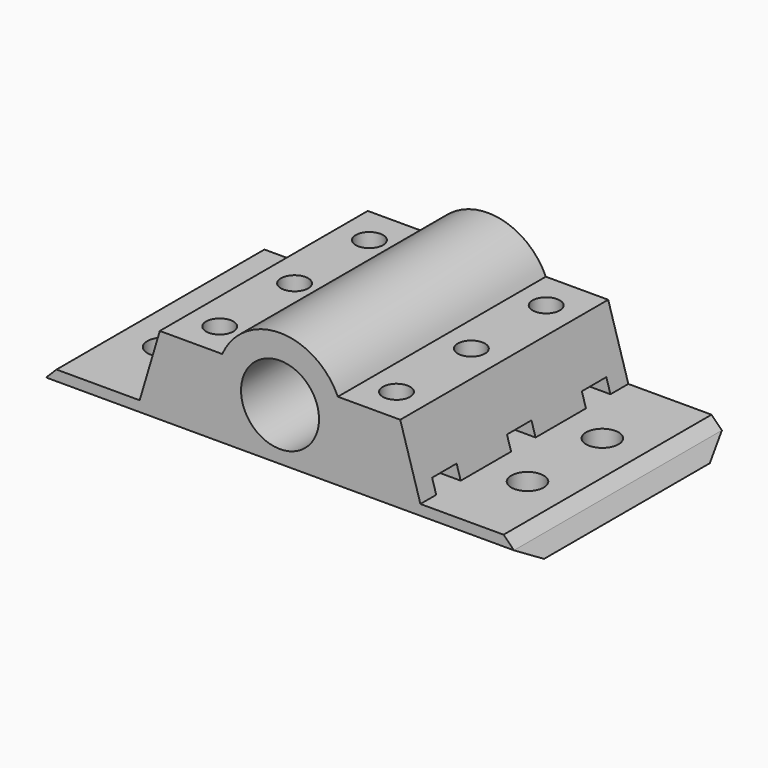
from build123d import *

# Parameters (mm, degrees)
SKETCH001_R     = 7.5
PAD_DEPTH       = 50
POCKET_DEPTH    = 93.668
SKETCH002_R     = 3.125
POCKET001_DEPTH = 61.197951
SKETCH003_R     = 1.7
POCKET002_DEPTH = 61.197951
SKETCH004_R     = 2.625
POCKET003_DEPTH = 4
POCKET004_DEPTH = 2.65
SKETCH006_W     = 90
SKETCH006_H     = 15
POCKET005_DEPTH = 5


with BuildPart() as part:
    # Sketch001 → Pad (new body)
    with BuildSketch(Plane.XZ.offset(-9.25)):
        with BuildLine():
            Line((168.894231, 39), (211.105769, 39))
            Line((212, 36), (211.105769, 39))
            Line((212, 36), (236.667, 36))
            Line((235, 39), (236.667, 36))
            Line((233, 41), (235, 39))
            Line((217, 41), (233, 41))
            Line((213.125, 54), (217, 41))
            Line((201.125, 54), (213.125, 54))
            ThreePointArc((201.125, 54), (190, 61.196951), (178.875, 54))
            Line((166.875, 54), (178.875, 54))
            Line((166.875, 54), (163, 41))
            Line((163, 41), (147, 41))
            Line((145, 39), (147, 41))
            Line((145, 39), (143.333, 36))
            Line((143.333, 36), (168, 36))
            Line((168.894231, 39), (168, 36))
        make_face()
        with Locations((190, 49)):
            Circle(SKETCH001_R, mode=Mode.SUBTRACT)
    extrude(amount=PAD_DEPTH)

    # Sketch → Pocket (cut, through all)
    with BuildSketch(Plane.YZ.offset(143)):
        Polygon((4.25, 36), (9.25, 39), (9.25, 36), align=None)
        Polygon((-35.6, 36), (-40.75, 39), (-40.75, 36), align=None)
    extrude(amount=POCKET_DEPTH, mode=Mode.SUBTRACT)

    # Sketch002 → Pocket001 (cut, through all)
    with BuildSketch(Plane.XY):
        with Locations((155, -7)):
            Circle(SKETCH002_R)
        with Locations((155, -25)):
            Circle(SKETCH002_R)
        with Locations((225, -7)):
            Circle(SKETCH002_R)
        with Locations((225, -25)):
            Circle(SKETCH002_R)
    extrude(amount=POCKET001_DEPTH, mode=Mode.SUBTRACT)

    # Sketch003 → Pocket002 (cut, through all)
    with BuildSketch(Plane.XY):
        with Locations((173, 2)):
            Circle(SKETCH003_R)
        with Locations((173, -16)):
            Circle(SKETCH003_R)
        with Locations((173, -34)):
            Circle(SKETCH003_R)
        with Locations((207, 2)):
            Circle(SKETCH003_R)
        with Locations((207, -16)):
            Circle(SKETCH003_R)
        with Locations((207, -34)):
            Circle(SKETCH003_R)
    extrude(amount=POCKET002_DEPTH, mode=Mode.SUBTRACT)

    # Sketch004 → Pocket003 (cut)
    with BuildSketch(Plane.XY.offset(54)):
        with Locations((173, 2)):
            Circle(SKETCH004_R)
        with Locations((207, -16)):
            Circle(SKETCH004_R)
        with Locations((173, -16)):
            Circle(SKETCH004_R)
        with Locations((173, -34)):
            Circle(SKETCH004_R)
        with Locations((207, -34)):
            Circle(SKETCH004_R)
        with Locations((207, 2)):
            Circle(SKETCH004_R)
    extrude(amount=-POCKET003_DEPTH, mode=Mode.SUBTRACT)

    # Sketch005 → Pocket004 (cut)
    with BuildSketch(Plane.XY.offset(41)):
        Polygon((174.7, 4.944486), (171.3, 4.944486), (162.8, 4.944486), (162.8, -0.944486), (171.3, -0.944486), (174.7, -0.944486), (176.4, 2), align=None)
        Polygon((176.4, -16), (174.7, -13.055514), (171.3, -13.055514), (162.8, -13.055514), (162.8, -18.944486), (171.3, -18.944486), (174.7, -18.944486), align=None)
        Polygon((176.4, -34), (174.7, -31.055514), (171.3, -31.055514), (162.8, -31.055514), (162.8, -36.944486), (171.3, -36.944486), (174.7, -36.944486), align=None)
        Polygon((203.6, 2), (205.3, -0.944486), (208.7, -0.944486), (217.2, -0.944486), (217.2, 4.944486), (208.7, 4.944486), (205.3, 4.944486), align=None)
        Polygon((203.6, -16), (205.3, -18.944486), (208.7, -18.944486), (217.2, -18.944486), (217.2, -13.055514), (208.7, -13.055514), (205.3, -13.055514), align=None)
        Polygon((203.6, -34), (205.3, -36.944486), (208.7, -36.944486), (217.2, -36.944486), (217.2, -31.055514), (208.7, -31.055514), (205.3, -31.055514), align=None)
    extrude(amount=POCKET004_DEPTH, mode=Mode.SUBTRACT)

    # Sketch006 → Pocket005 (cut)
    with BuildSketch(Plane.XZ.offset(-26.5)):
        with Locations((190, 54.5)):
            Rectangle(SKETCH006_W, SKETCH006_H)
    extrude(amount=POCKET005_DEPTH, mode=Mode.SUBTRACT)


solid = part.part
